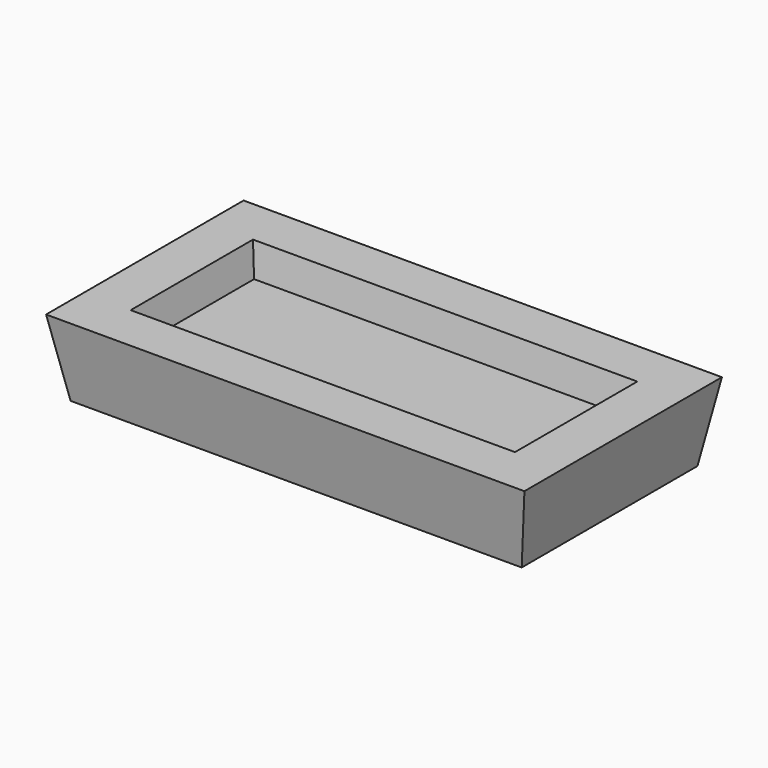
from build123d import *

# Parameters (mm, degrees)
F0_W     = 1240
F0_H     = 640
F0_W_2   = 1000
F0_H_2   = 400
F1_DEPTH = 200
F1_TAPER = 10
F2_T     = -120


with BuildPart() as f1:
    # F0 (on Top) → F1 (new body)
    with BuildSketch(Plane.XY):
        Rectangle(F0_W, F0_H)
        Rectangle(F0_W_2, F0_H_2, mode=Mode.SUBTRACT)
        Rectangle(F0_W_2, F0_H_2)
    extrude(amount=-F1_DEPTH, taper=F1_TAPER)

    # F2
    f2_openings = [f1.faces().sort_by_distance(p)[0] for p in [
        (0, 0, 0),
    ]]
    offset(amount=F2_T, openings=f2_openings)


solid = f1.part
